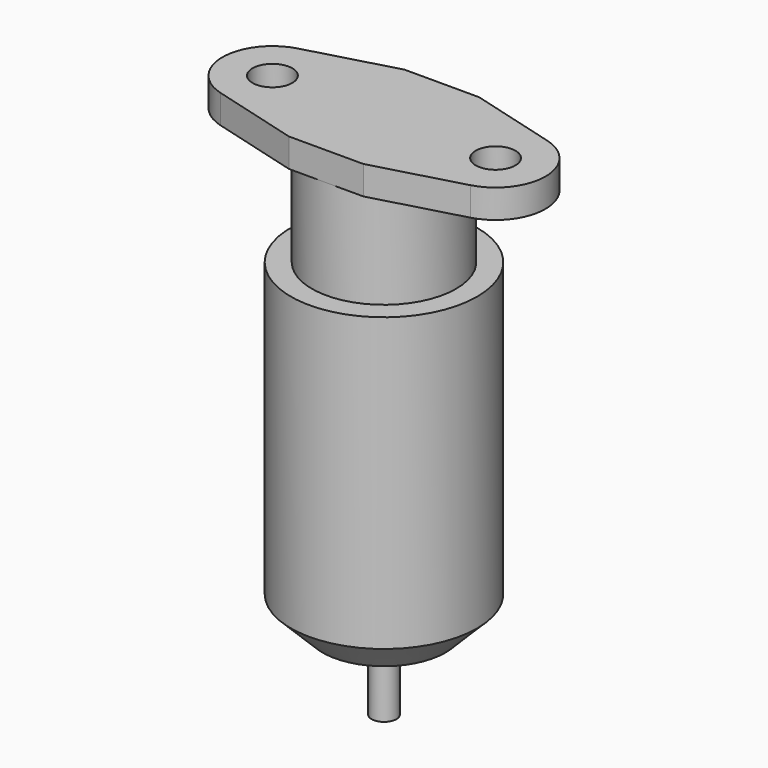
from build123d import *

# Parameters (mm, degrees)
F0_R     = 1.6
F1_DEPTH = 2.3


with BuildPart() as f1:
    # F0 (on Top) → F1 (new body)
    with BuildSketch(Plane.XY):
        with BuildLine():
            Line((3, -5.82), (10.049131, -3.875224))
            ThreePointArc((10.049131, -3.875224), (13, 0), (10.049131, 3.875224))
            Line((10.049131, 3.875224), (3, 5.82))
            Line((3, 5.82), (-3, 5.82))
            Line((-3, 5.82), (-10.049131, 3.875224))
            ThreePointArc((-10.049131, 3.875224), (-13, 0), (-10.049131, -3.875224))
            Line((-10.049131, -3.875224), (-3, -5.82))
            Line((-3, -5.82), (3, -5.82))
        make_face()
        with Locations((-8.98, 0)):
            Circle(F0_R, mode=Mode.SUBTRACT)
        with Locations((8.98, 0)):
            Circle(F0_R, mode=Mode.SUBTRACT)
    extrude(amount=-F1_DEPTH)

    # F2 (on Front) → F3 (revolve)
    with BuildSketch(Plane.XZ):
        Polygon((5.8, -2.3), (0, -2.3), (0, -42.35), (1, -42.35), (1, -36.35), (4.95, -36.35), (7.5, -33.8), (7.5, -10.3), (5.8, -10.3), align=None)
    revolve(axis=Axis((0, 0, -22.325), (0, 0, -1)))


solid = f1.part
